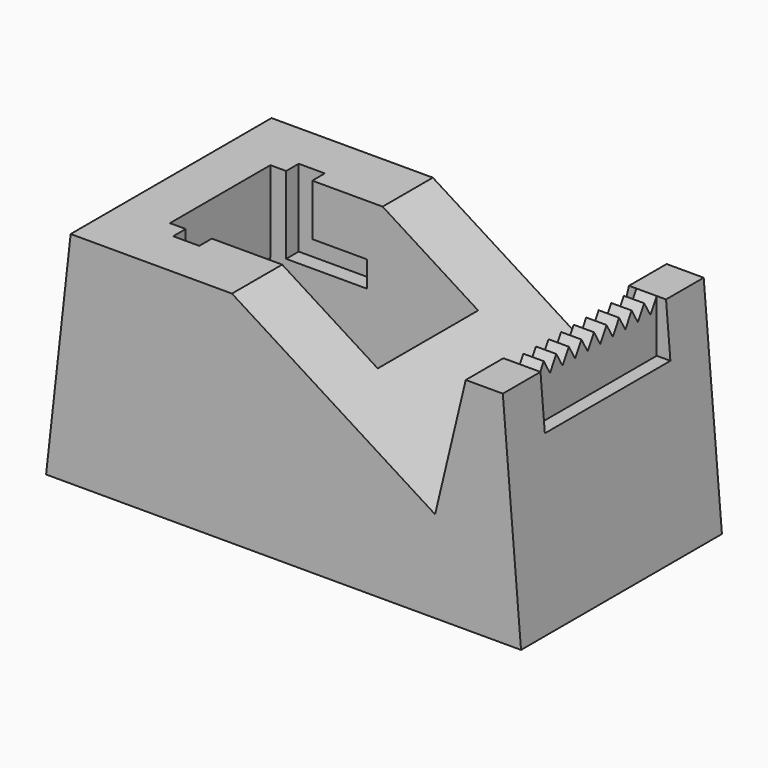
from build123d import *

# Parameters (mm, degrees)
F1_DEPTH = 20
F3_DEPTH = 10
F4_W     = 4.1598360986
F4_H     = 9.7989272326
F4_H_2   = 4.1150059551
F4_W_2   = 8.7187699974
F5_DEPTH = 12.5
F6_W     = 11.4290565252
F6_H     = 16.5465530008
F6_W_2   = 7.5056552887
F7_DEPTH = 12.5
F9_DEPTH = 10


with BuildPart() as f1:
    # F0 (on Front) → F1 (new body, symmetric)
    with BuildSketch(Plane.XZ):
        Polygon((3.9122919877, 35), (0, 0), (75.6573826075, 0), (72.7546669653, 35), (66.8505893794, 35), (61.9674493795, 14.5631379331), (29.6090823453, 35), align=None)
    extrude(amount=F1_DEPTH, both=True)

    # F2 (on Front) → F3 (cut, symmetric)
    with BuildSketch(Plane.XZ):
        with BuildLine():
            Line((44.829197228, 40.699031204), (11.7313470691, 40.699031204))
            Line((11.7313470691, 40.699031204), (11.7313470691, 22.1760364611))
            ThreePointArc((11.7313470691, 22.1760364611), (27.3392283785, 33.0721865907), (39.986979806, 18.8466310501))
            ThreePointArc((39.986979806, 18.8466310501), (38.9972583667, 13.6146205714), (36.1648645763, 9.1056264937))
            Line((36.1648645763, 9.1056264937), (44.829197228, 9.1056264937))
            Line((44.829197228, 9.1056264937), (44.829197228, 40.699031204))
        make_face()
        with BuildLine():
            ThreePointArc((39.986979806, 18.8466310501), (27.3392283785, 33.0721865907), (11.7313470691, 22.1760364611))
            Line((11.7313470691, 22.1760364611), (11.7313470691, 15.5172256391))
            ThreePointArc((11.7313470691, 15.5172256391), (13.032634994, 12.0901677157), (15.1611532505, 9.1056264937))
            Line((15.1611532505, 9.1056264937), (36.1648645763, 9.1056264937))
            ThreePointArc((36.1648645763, 9.1056264937), (38.9972583667, 13.6146205714), (39.986979806, 18.8466310501))
        make_face()
        with BuildLine():
            Line((11.7313470691, 15.5172256391), (11.7313470691, 22.1760364611))
            ThreePointArc((11.7313470691, 22.1760364611), (11.3390380208, 18.8466310501), (11.7313470691, 15.5172256391))
        make_face()
        with BuildLine():
            ThreePointArc((15.1611532505, 9.1056264937), (13.032634994, 12.0901677157), (11.7313470691, 15.5172256391))
            Line((11.7313470691, 15.5172256391), (11.7313470691, 9.1056264937))
            Line((11.7313470691, 9.1056264937), (15.1611532505, 9.1056264937))
        make_face()
        with BuildLine():
            ThreePointArc((15.1611532505, 9.1056264937), (25.6630089134, 4.5226601575), (36.1648645763, 9.1056264937))
            Line((36.1648645763, 9.1056264937), (15.1611532505, 9.1056264937))
        make_face()
    extrude(amount=F3_DEPTH, both=True, mode=Mode.SUBTRACT)

    # F4 (on Front) → F5 (cut, symmetric)
    with BuildSketch(Plane.XZ):
        with Locations((16.3239417598, 31.6951358691)):
            Rectangle(F4_W, F4_H)
        with Locations((16.3239417598, 24.7381692752)):
            Rectangle(F4_W, F4_H_2)
        with Locations((22.7632448077, 24.7381692752)):
            Rectangle(F4_W_2, F4_H_2)
    extrude(amount=F5_DEPTH, both=True, mode=Mode.SUBTRACT)

    # F6 (on Front) → F7 (cut, symmetric)
    with BuildSketch(Plane.XZ):
        with Locations((76.988093555, 34.8887415603)):
            Rectangle(F6_W, F6_H)
        with Locations((64.2796605825, 34.8887415603)):
            Rectangle(F6_W_2, F6_H)
    extrude(amount=F7_DEPTH, both=True, mode=Mode.SUBTRACT)

    # F8 (on face) → F9 (cut)
    with BuildSketch(Plane.YZ.offset(71.2735652924)):
        Polygon((-12.5068677589, 38.0216091871), (-12.5, 35), (-11.25, 32.8349364905), (-10, 35), (-8.75, 32.8349364905), (-7.5, 35), (-6.25, 32.8349364905), (-5, 35), (-3.75, 32.8349364905), (-2.5, 35), (-1.25, 32.8349364905), (0, 35), (1.25, 32.8349364905), (2.5, 35), (3.75, 32.8349364905), (5, 35), (6.25, 32.8349364905), (7.5, 35), (8.75, 32.8349364905), (10, 35), (11.25, 32.8349364905), (12.5, 35), (12.5, 38.0216091871), align=None)
    extrude(amount=-F9_DEPTH, mode=Mode.SUBTRACT)


solid = f1.part
